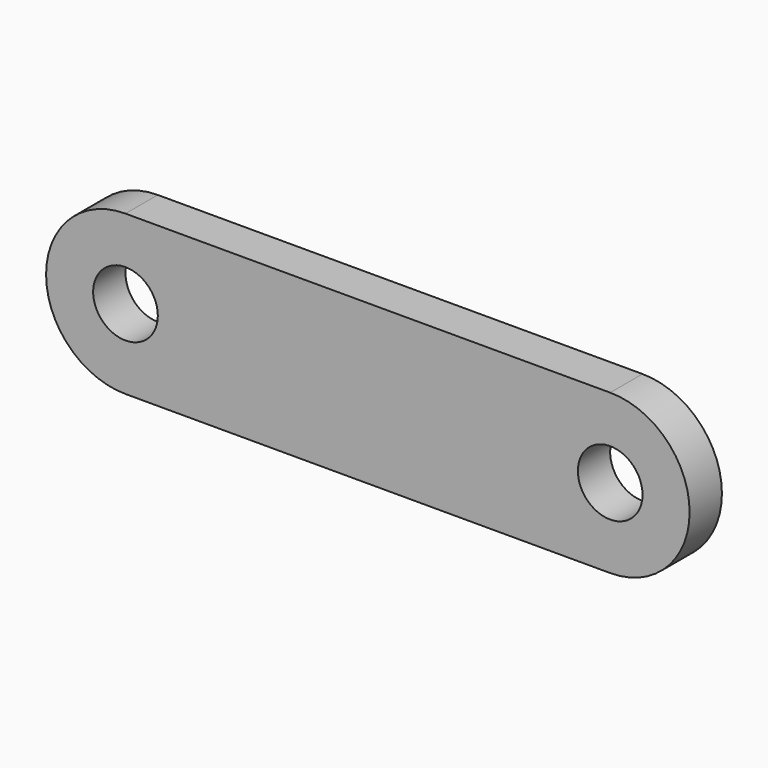
from build123d import *

# Parameters (mm, degrees)
F0_R     = 4.0005
F1_DEPTH = 2.5


with BuildPart() as f1:
    # F0 (on Front) → F1 (new body, symmetric)
    with BuildSketch(Plane.XZ):
        with BuildLine():
            Line((0, 9.8298), (-29.9974, 9.8298))
            ThreePointArc((-29.9974, 9.8298), (-39.8272, 0), (-29.9974, -9.8298))
            Line((-29.9974, -9.8298), (0, -9.8298))
            Line((0, -9.8298), (29.9974, -9.8298))
            ThreePointArc((29.9974, -9.8298), (39.8272, 0), (29.9974, 9.8298))
            Line((29.9974, 9.8298), (0, 9.8298))
        make_face()
        with Locations((-29.9974, 0)):
            Circle(F0_R, mode=Mode.SUBTRACT)
        with Locations((29.9974, 0)):
            Circle(F0_R, mode=Mode.SUBTRACT)
    extrude(amount=F1_DEPTH, both=True)


solid = f1.part
